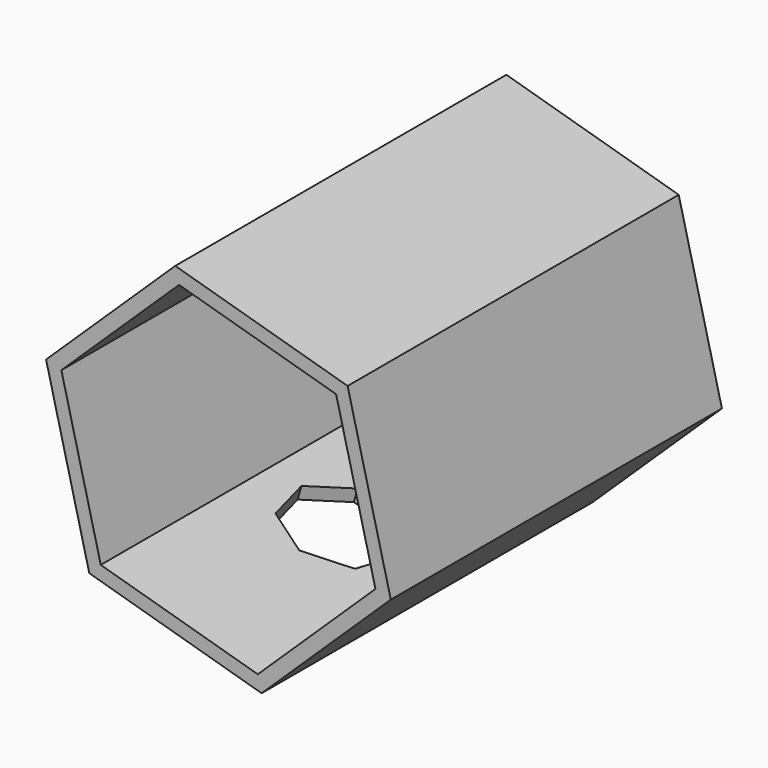
from build123d import *

# Parameters (mm, degrees)
F1_DEPTH = 150
F2_T     = -5
F4_DEPTH = 25


with BuildPart() as f1:
    # F0 (on Front) → F1 (new body)
    with BuildSketch(Plane.XZ):
        Polygon((-12.2474321396, 63.0875647986), (-59.0572801928, 17.9894703241), (-43.4061087422, -45.0980944746), (19.0549107617, -63.0875647986), (65.8647588149, -17.9894703241), (50.2135873642, 45.0980944746), align=None)
    extrude(amount=F1_DEPTH)

    # F2
    f2_openings = [f1.faces().sort_by_distance(p)[0] for p in [
        (3.403739, -150, 0),
    ]]
    offset(amount=F2_T, openings=f2_openings)

    # F3 (on face) → F4 (cut)
    with BuildSketch(Plane(origin=(-15.3186231144, 0, -53.1876036307), x_dir=(0.9609387616, 0, -0.2767610819), z_dir=(-0.2767610819, 0, -0.9609387616))):
        Polygon((-5.047660324, 59.1908805072), (11.5892304007, 59.1908805072), (21.9621621023, 72.1981254462), (18.26010564, 88.4178945857), (3.2707850383, 95.6363709407), (-11.7185355634, 88.4178945857), (-15.4205920256, 72.1981254462), align=None)
    extrude(amount=-F4_DEPTH, mode=Mode.SUBTRACT)


solid = f1.part
